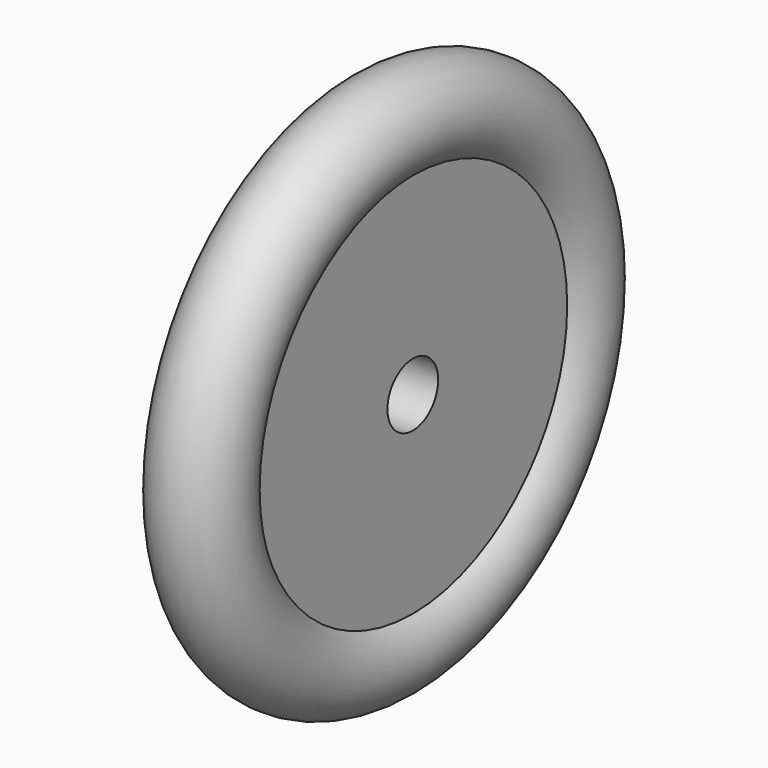
from build123d import *


with BuildPart() as f1:
    # F0 (on Front) → F1 (revolve)
    with BuildSketch(Plane.XZ):
        with BuildLine():
            Line((3.233898, 3.559014), (3.233898, 21.667298))
            ThreePointArc((3.233898, 21.667298), (0.318727, 30.727891), (-3.701466, 22.100572))
            Line((-3.701466, 22.100572), (-3.701466, 3.559014))
            Line((-3.701466, 3.559014), (3.233898, 3.559014))
        make_face()
    revolve(axis=Axis((1.027191, 0, 0), (1, 0, 0)))


solid = f1.part
